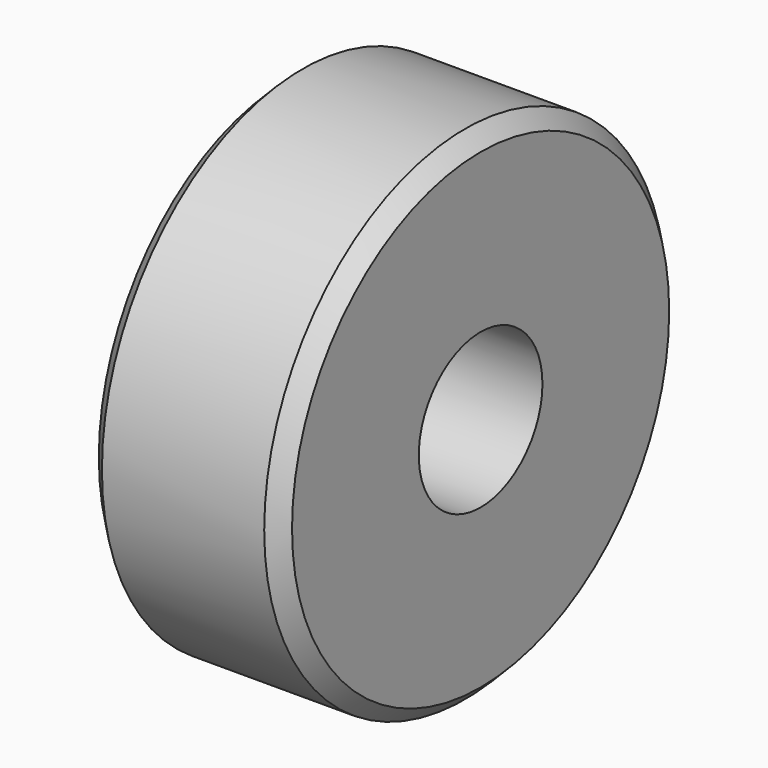
from build123d import *

# Parameters (mm, degrees)
F0_R     = 6.5
F0_R_2   = 2
F1_DEPTH = 5
F2_SIZE  = 0.4


with BuildPart() as f1:
    # F0 (on Right) → F1 (new body)
    with BuildSketch(Plane.YZ):
        Circle(F0_R)
        Circle(F0_R_2, mode=Mode.SUBTRACT)
    extrude(amount=F1_DEPTH)

    # F2
    f2_edges = [f1.edges().sort_by_distance(p)[0] for p in [
        (2.5, 6.5, 0),
        (0, -6.5, 0),
        (5, -6.5, 0),
    ]]
    chamfer(f2_edges, length=F2_SIZE)


solid = f1.part
